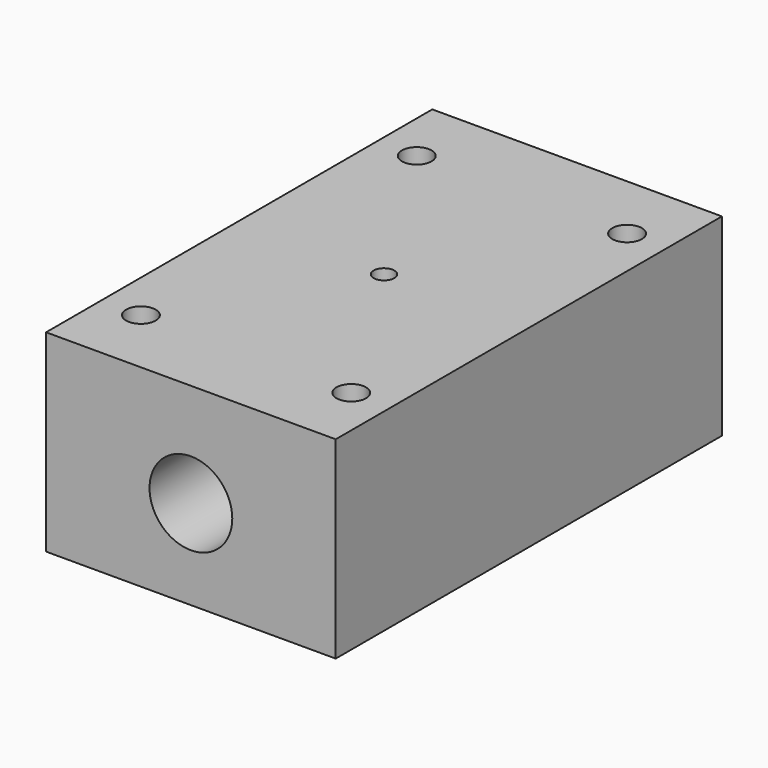
from build123d import *

# Parameters (mm, degrees)
F0_W     = 42
F0_H     = 70
F0_R     = 2.15
F1_DEPTH = 28
F2_R     = 6
F3_DEPTH = 70
F4_R     = 1.5
F5_DEPTH = 5


with BuildPart() as f1:
    # F0 (on Top) → F1 (new body)
    with BuildSketch(Plane.XY):
        Rectangle(F0_W, F0_H)
        with Locations((-15.25, -25)):
            Circle(F0_R, mode=Mode.SUBTRACT)
        with Locations((15.25, -25)):
            Circle(F0_R, mode=Mode.SUBTRACT)
        with Locations((-15.25, 25)):
            Circle(F0_R, mode=Mode.SUBTRACT)
        with Locations((15.25, 25)):
            Circle(F0_R, mode=Mode.SUBTRACT)
    extrude(amount=-F1_DEPTH)

    # F2 (on face) → F3 (cut)
    with BuildSketch(Plane.XZ.offset(35)):
        with Locations((0, -15)):
            Circle(F2_R)
    extrude(amount=-F3_DEPTH, mode=Mode.SUBTRACT)

    # F4 (on face) → F5 (cut)
    with BuildSketch(Plane.XY):
        Circle(F4_R)
    extrude(amount=-F5_DEPTH, mode=Mode.SUBTRACT)


solid = f1.part
